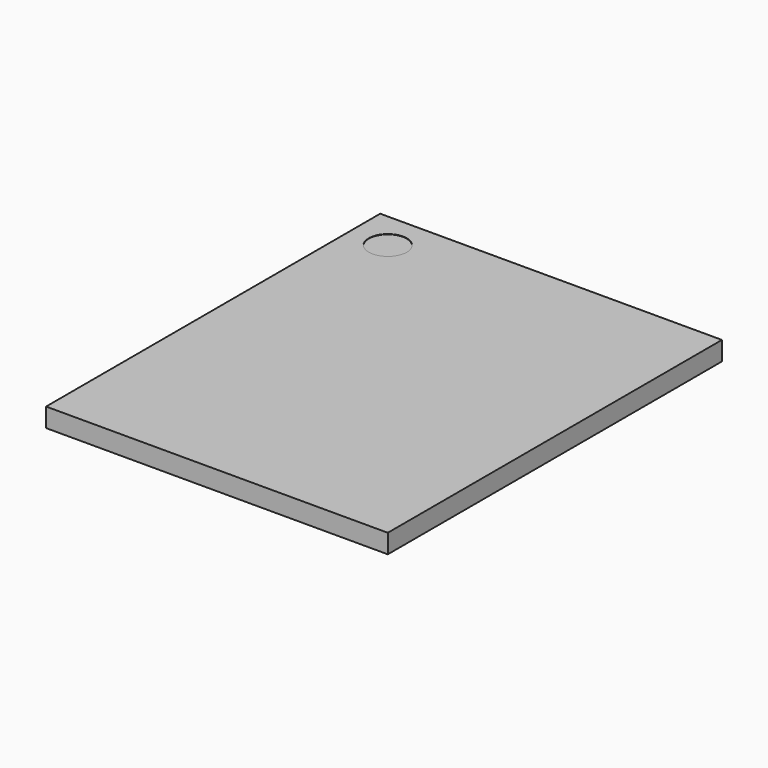
from build123d import *

# Parameters (mm, degrees)
CYLINDER027_R     = 0.5
CYLINDER027_DEPTH = 0.01
BOX072_W          = 9
BOX072_H          = 11
BOX072_DEPTH      = 0.5


with BuildPart() as cylinder027:
    # Cylinder027 → Cylinder027 (new body)
    with BuildSketch(Plane(origin=(1, 10, 0.49), x_dir=(1, 0, 0), z_dir=(0, 0, 1))):
        Circle(CYLINDER027_R)
    extrude(amount=CYLINDER027_DEPTH)


with BuildPart() as obj1:
    # Box072 → Box072 (new body)
    with BuildSketch(Plane.XY):
        with Locations((4.5, 5.5)):
            Rectangle(BOX072_W, BOX072_H)
    extrude(amount=BOX072_DEPTH)

    # Cut020: cut Cylinder027
    add(cylinder027.part, mode=Mode.SUBTRACT)


with BuildPart() as obj1_1:
    # Cut020 placement: moved
    add(obj1.part.moved(Location((-4.76, 9.63, 20.6))))


solid = obj1_1.part
